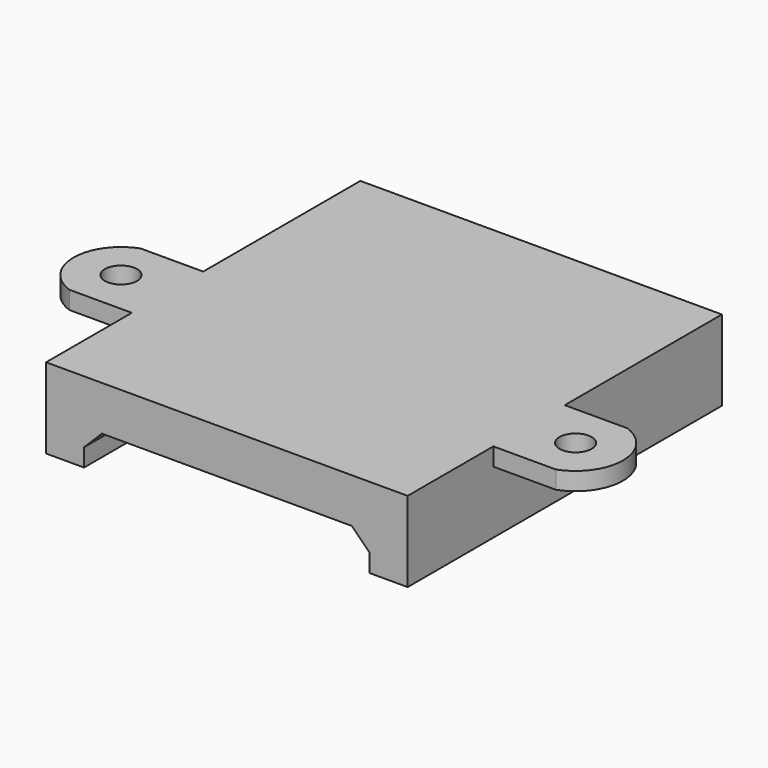
from build123d import *

# Parameters (mm, degrees)
EXTRUDE001_DEPTH                     = 44
EXTRUDE001_ONTO_SKETCH001_ROLL_ANGLE = 90
SKETCH_R                             = 1.8
EXTRUDE_DEPTH                        = 2
CHAMFER_SIZE                         = 2


with BuildPart() as extrude001:
    # Sketch001 as drawn → Extrude001 (new)
    with BuildSketch(Plane.XY):
        Polygon((-20.25, 0), (20.25, 0), (20.25, -7), (16, -7), (16, -3), (-16, -3), (-16, -7), (-20.25, -7), align=None)
    extrude(amount=-EXTRUDE001_DEPTH)


with BuildPart() as extrude001_1:
    # Extrude001 onto Sketch001 roll: moved
    add(extrude001.part.rotate(Axis((0, 0, 0), (1, 0, 0)), EXTRUDE001_ONTO_SKETCH001_ROLL_ANGLE))


with BuildPart() as extrude001_2:
    # Extrude001 onto Sketch001 placement: moved
    add(extrude001_1.part)


with BuildPart() as chamfer_body:
    # Sketch → Extrude (new body)
    with BuildSketch(Plane.XY):
        with BuildLine():
            Line((-20.25, 44), (-20.25, 22))
            Line((-20.25, 22), (-27.25, 22))
            ThreePointArc((-27.25, 22), (-30.769759, 17), (-27.25, 12))
            Line((-27.25, 12), (-20.25, 12))
            Line((-20.25, 12), (-20.25, 0))
            Line((-20.25, 0), (20.25, 0))
            Line((20.25, 0), (20.25, 12))
            Line((20.25, 12), (27.25, 12))
            ThreePointArc((27.25, 12), (30.769759, 17), (27.25, 22))
            Line((27.25, 22), (20.25, 22))
            Line((20.25, 22), (20.25, 44))
            Line((20.25, 44), (-20.25, 44))
        make_face()
        with Locations((-25.4585, 17)):
            Circle(SKETCH_R, mode=Mode.SUBTRACT)
        with Locations((25.4585, 17)):
            Circle(SKETCH_R, mode=Mode.SUBTRACT)
    extrude(amount=EXTRUDE_DEPTH)

    # Fusion: union Extrude001
    add(extrude001_2.part)

    # Chamfer
    chamfer_edges = [chamfer_body.edges().sort_by_distance(p)[0] for p in [
        (-16, 22, -3),
        (16, 22, -3),
    ]]
    chamfer(chamfer_edges, length=CHAMFER_SIZE)


solid = chamfer_body.part
